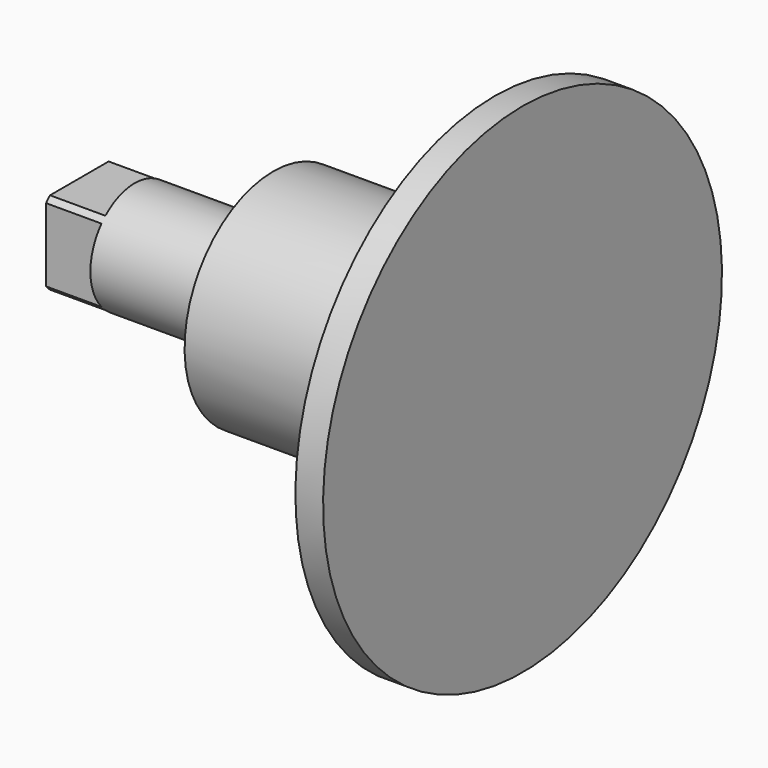
from build123d import *

# Parameters (mm, degrees)
F2_R     = 1
F3_DEPTH = 4


with BuildPart() as f1:
    # F0 (on Front) → F1 (revolve)
    with BuildSketch(Plane.XZ):
        Polygon((-6, 8), (-18, 8), (-18, 4), (-32, 4), (-32, 1), (-12, 1), (-12, 0), (0, 0), (0, 18), (-2, 18), align=None)
    revolve(axis=Axis((0, 0, 0), (1, 0, 0)))

    # F2 (on face) → F3 (cut)
    with BuildSketch(Plane(origin=(-32, 0, 0), x_dir=(0, -1, 0), z_dir=(-1, 0, 0))):
        Circle(F2_R)
        with BuildLine():
            ThreePointArc((2.6457513111, 3), (0, 4), (-2.6457513111, 3))
            Line((-2.6457513111, 3), (2.6457513111, 3))
        make_face()
        with BuildLine():
            ThreePointArc((4, 0), (3.7416573868, 1.4142135624), (3, 2.6457513111))
            Line((3, 2.6457513111), (3, -2.6457513111))
            ThreePointArc((3, -2.6457513111), (3.7416573868, -1.4142135624), (4, 0))
        make_face()
        with BuildLine():
            Line((2.6457513111, -3), (-2.6457513111, -3))
            ThreePointArc((-2.6457513111, -3), (0, -4), (2.6457513111, -3))
        make_face()
        with BuildLine():
            Line((-3, -2.6457513111), (-3, 2.6457513111))
            ThreePointArc((-3, 2.6457513111), (-4, 0), (-3, -2.6457513111))
        make_face()
    extrude(amount=-F3_DEPTH, mode=Mode.SUBTRACT)


solid = f1.part
